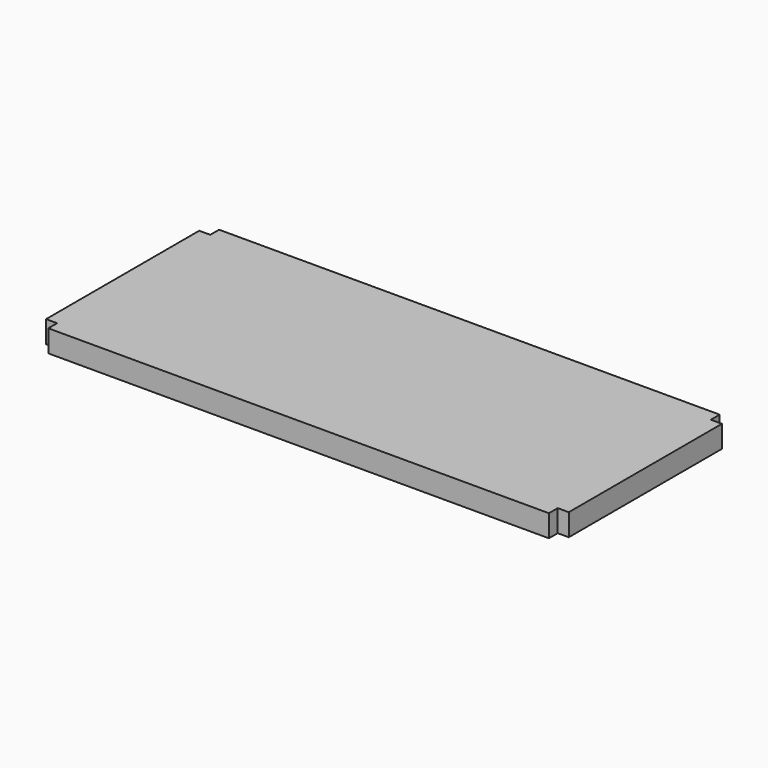
from build123d import *

# Parameters (mm, degrees)
F0_W     = 450.85
F0_H     = 184.15
F2_DEPTH = 19.05
F1_W     = 9.525
F1_H     = 9.525
F3_DEPTH = 25.4


with BuildPart() as f2:
    # F0 (on Top) → F2 (new body)
    with BuildSketch(Plane.XY):
        with Locations((225.425, 92.075)):
            Rectangle(F0_W, F0_H)
    extrude(amount=F2_DEPTH)

    # F1 (on face) → F3 (cut)
    with BuildSketch(Plane.XY):
        with Locations((4.7625, 4.7625)):
            Rectangle(F1_W, F1_H)
        with Locations((4.7625, 179.40846)):
            Rectangle(F1_W, F1_H)
        with Locations((446.0875, 4.7625)):
            Rectangle(F1_W, F1_H)
        with Locations((446.0875, 179.40846)):
            Rectangle(F1_W, F1_H)
    extrude(amount=F3_DEPTH, mode=Mode.SUBTRACT)


solid = f2.part
